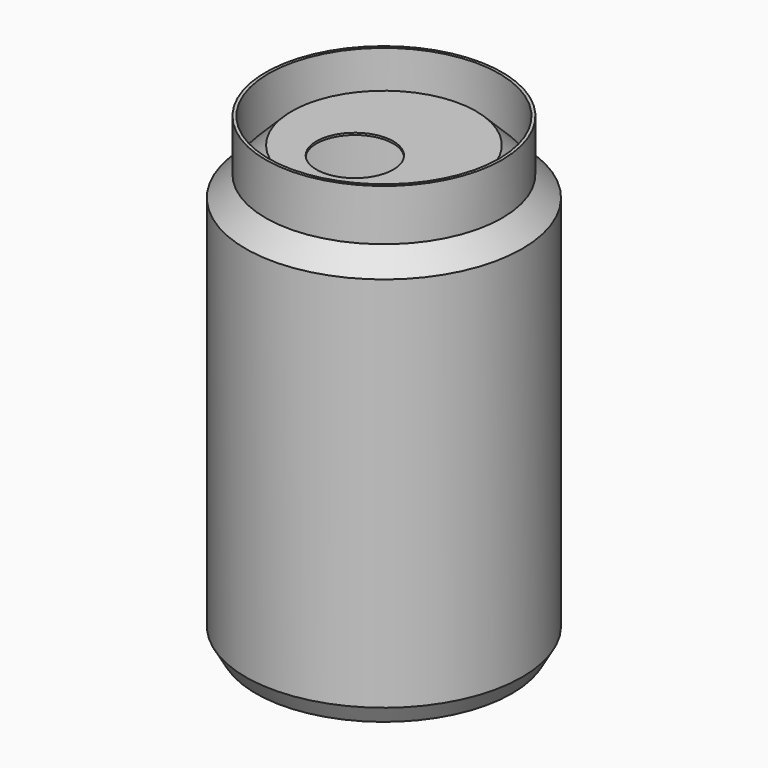
from build123d import *

# Parameters (mm, degrees)
F4_R     = 115.5
F4_R_2   = 112.5
F2_DEPTH = 25
F3_R     = 37.5
F5_DEPTH = 2


with BuildPart() as f1:
    # F0 (on Front) → F1 (revolve)
    with BuildSketch(Plane.XZ):
        Polygon((0, -71.573662), (0, 296.426338), (-45.129046, 341.555384), (-135, 341.555384), (-135, 339.555384), (-45.957473, 339.555384), (-2, 295.597911), (-2, -71.037763), (-11.177422, -86.933525), (-135, -86.933525), (-135, -88.933525), (-10.022722, -88.933525), align=None)
    revolve(axis=Axis((-135, 0, 126.31093), (0, 0, -1)))

    # F4 (on face) → F2 (join, symmetric)
    with BuildSketch(Plane.XY.offset(341.555384)):
        with Locations((-135, 0)):
            Circle(F4_R)
        with Locations((-135, 0)):
            Circle(F4_R_2, mode=Mode.SUBTRACT)
    extrude(amount=F2_DEPTH, both=True)

    # F3 (on face) → F5 (cut, through all)
    with BuildSketch(Plane.XY.offset(341.555384)):
        with Locations((-141.725168, -27.080007)):
            Circle(F3_R)
    extrude(amount=-F5_DEPTH, mode=Mode.SUBTRACT)


solid = f1.part
